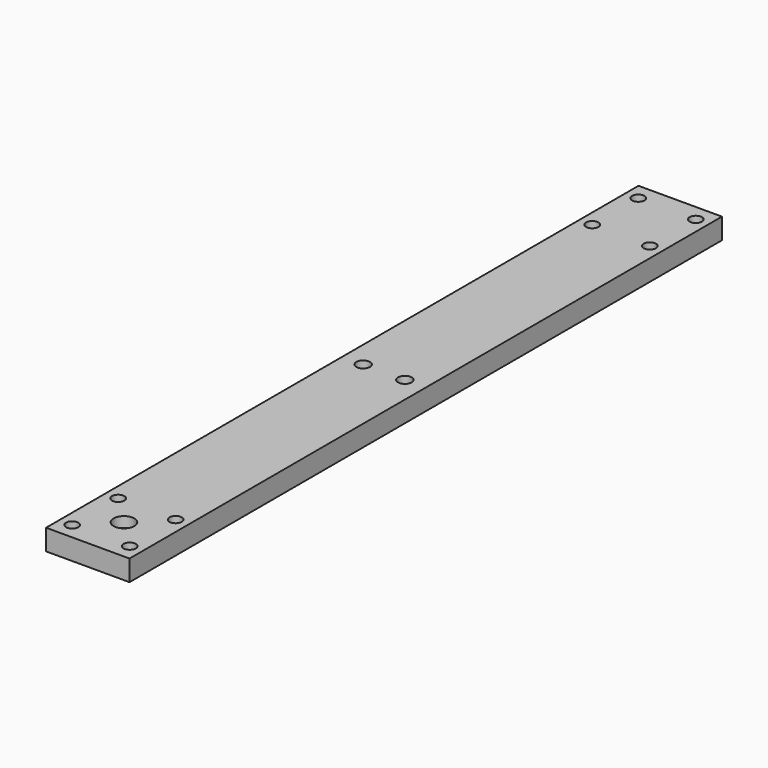
from build123d import *

# Parameters (mm, degrees)
F0_W     = 50.8
F0_H     = 450.85
F0_R     = 3.770313
F1_DEPTH = 12.7
F2_R     = 4.167188
F3_DEPTH = 25.4
F5_DEPTH = 6.35


with BuildPart() as f1:
    # F0 (on Top) → F1 (new body)
    with BuildSketch(Plane.XY):
        Rectangle(F0_W, F0_H)
        with Locations((-17.5, -215.425)):
            Circle(F0_R, mode=Mode.SUBTRACT)
        with Locations((-17.5, -180.425)):
            Circle(F0_R, mode=Mode.SUBTRACT)
        with Locations((17.5, -215.425)):
            Circle(F0_R, mode=Mode.SUBTRACT)
        with Locations((17.5, -180.425)):
            Circle(F0_R, mode=Mode.SUBTRACT)
        with Locations((-17.5, 180.425)):
            Circle(F0_R, mode=Mode.SUBTRACT)
        with Locations((-17.5, 215.425)):
            Circle(F0_R, mode=Mode.SUBTRACT)
        with Locations((17.5, 180.425)):
            Circle(F0_R, mode=Mode.SUBTRACT)
        with Locations((17.5, 215.425)):
            Circle(F0_R, mode=Mode.SUBTRACT)
    extrude(amount=F1_DEPTH)

    # F2 (on face) → F3 (cut)
    with BuildSketch(Plane.XY.offset(12.7)):
        with Locations((-12.7, 0)):
            Circle(F2_R)
        with Locations((12.7, 0)):
            Circle(F2_R)
    extrude(amount=-F3_DEPTH, mode=Mode.SUBTRACT)

    # F4 (on face) → F5 (cut)
    with BuildSketch(Plane.XY.offset(12.7)):
        with BuildLine():
            ThreePointArc((-4.490128, -202.415128), (2.43004, -203.791635), (6.35, -197.925))
            ThreePointArc((6.35, -197.925), (5.866635, -195.49496), (4.490128, -193.434872))
            Line((4.490128, -193.434872), (-4.490128, -202.415128))
        make_face()
        with BuildLine():
            Line((-4.490128, -202.415128), (4.490128, -193.434872))
            ThreePointArc((4.490128, -193.434872), (-4.490128, -193.434872), (-4.490128, -202.415128))
        make_face()
    extrude(amount=-F5_DEPTH, mode=Mode.SUBTRACT)


solid = f1.part
